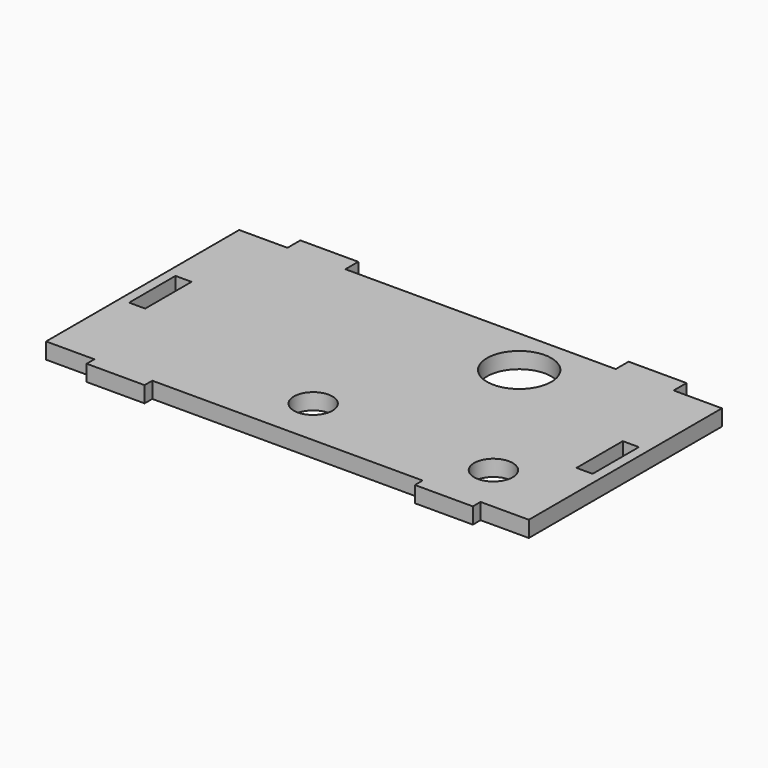
from build123d import *

# Parameters (mm, degrees)
F0_R     = 6
F0_W     = 5
F0_H     = 18
F0_R_2   = 10
F1_DEPTH = 5


with BuildPart() as f1:
    # F0 (on Top) → F1 (new body)
    with BuildSketch(Plane.XY):
        Polygon((75, -37.5), (75, 37.5), (60, 37.5), (60, 42.5), (42, 42.5), (42, 37.5), (-42, 37.5), (-42, 42.5), (-60, 42.5), (-60, 37.5), (-75, 37.5), (-75, -37.5), (-60, -37.5), (-60, -40.5), (-42, -40.5), (-42, -37.5), (42, -37.5), (42, -40.5), (60, -40.5), (60, -37.5), align=None)
        with Locations((-4, -22.5)):
            Circle(F0_R, mode=Mode.SUBTRACT)
        with Locations((-69.5, 0)):
            Rectangle(F0_W, F0_H, mode=Mode.SUBTRACT)
        with Locations((52, -22.5)):
            Circle(F0_R, mode=Mode.SUBTRACT)
        with Locations((69.5, 0)):
            Rectangle(F0_W, F0_H, mode=Mode.SUBTRACT)
        with Locations((24, 22.5)):
            Circle(F0_R_2, mode=Mode.SUBTRACT)
    extrude(amount=F1_DEPTH)


solid = f1.part
